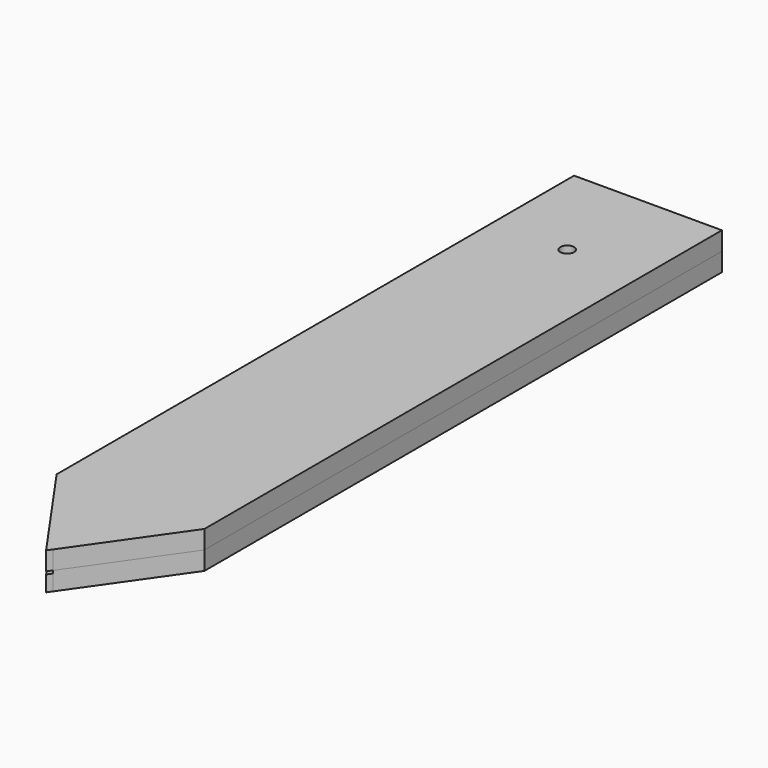
from build123d import *

# Parameters (mm, degrees)
F1_DEPTH = 0.85
F2_DEPTH = 1
F4_DEPTH = 1


with BuildPart() as f1:
    # F0 (on Top) → F1 (new body)
    with BuildSketch(Plane.XY):
        with BuildLine():
            ThreePointArc((0.35, 0), (-0.175, 0.303109), (-0.175, -0.303109))
            Line((-0.175, -0.303109), (-0.175, 0))
            Line((-0.175, 0), (0.175, 0))
            Line((0.175, 0), (0.175, -0.303109))
            ThreePointArc((0.175, -0.303109), (0.303109, -0.175), (0.35, 0))
        make_face()
        with BuildLine():
            Line((-0.175, -0.303109), (-0.175, -35))
            Line((-0.175, -35), (0, -35.249926))
            Line((0, -35.249926), (0.175, -35))
            Line((0.175, -35), (0.175, -0.303109))
            ThreePointArc((0.175, -0.303109), (0, -0.35), (-0.175, -0.303109))
        make_face()
        with BuildLine():
            Line((-0.175, 0), (-0.175, -0.303109))
            ThreePointArc((-0.175, -0.303109), (0, -0.35), (0.175, -0.303109))
            Line((0.175, -0.303109), (0.175, 0))
            Line((0.175, 0), (-0.175, 0))
        make_face()
    extrude(amount=F1_DEPTH)

    # F0 (on Top) → F2 (join)
    with BuildSketch(Plane.XY):
        with BuildLine():
            Line((4, 5.462666), (-4, 5.462666))
            Line((-4, 5.462666), (-4, -29.537334))
            Line((-4, -29.537334), (-0.175, -35))
            Line((-0.175, -35), (-0.175, -0.303109))
            ThreePointArc((-0.175, -0.303109), (-0.175, 0.303109), (0.35, 0))
            ThreePointArc((0.35, 0), (0.303109, -0.175), (0.175, -0.303109))
            Line((0.175, -0.303109), (0.175, -35))
            Line((0.175, -35), (4, -29.537334))
            Line((4, -29.537334), (4, 5.462666))
        make_face()
    extrude(amount=F2_DEPTH)


with BuildPart() as f4:
    # F3 (on face) → F4 (new body)
    with BuildSketch(Plane.XY.offset(1)):
        with BuildLine():
            ThreePointArc((-0.175, -0.331662), (-0.193649, 0.321131), (0.375, 0))
            ThreePointArc((0.375, 0), (0.321131, -0.193649), (0.175, -0.331662))
            Line((0.175, -0.331662), (0.175, -35))
            Line((0.175, -35), (4, -29.537334))
            Line((4, -29.537334), (4, 5.462666))
            Line((4, 5.462666), (-4, 5.462666))
            Line((-4, 5.462666), (-4, -29.537334))
            Line((-4, -29.537334), (-0.175, -35))
            Line((-0.175, -35), (-0.175, -0.331662))
        make_face()
        with BuildLine():
            ThreePointArc((0.175, -0.331662), (0, -0.375), (-0.175, -0.331662))
            Line((-0.175, -0.331662), (-0.175, -35))
            Line((-0.175, -35), (0, -35.249926))
            Line((0, -35.249926), (0.175, -35))
            Line((0.175, -35), (0.175, -0.331662))
        make_face()
    extrude(amount=F4_DEPTH)


solid = Compound([f1.part, f4.part])
